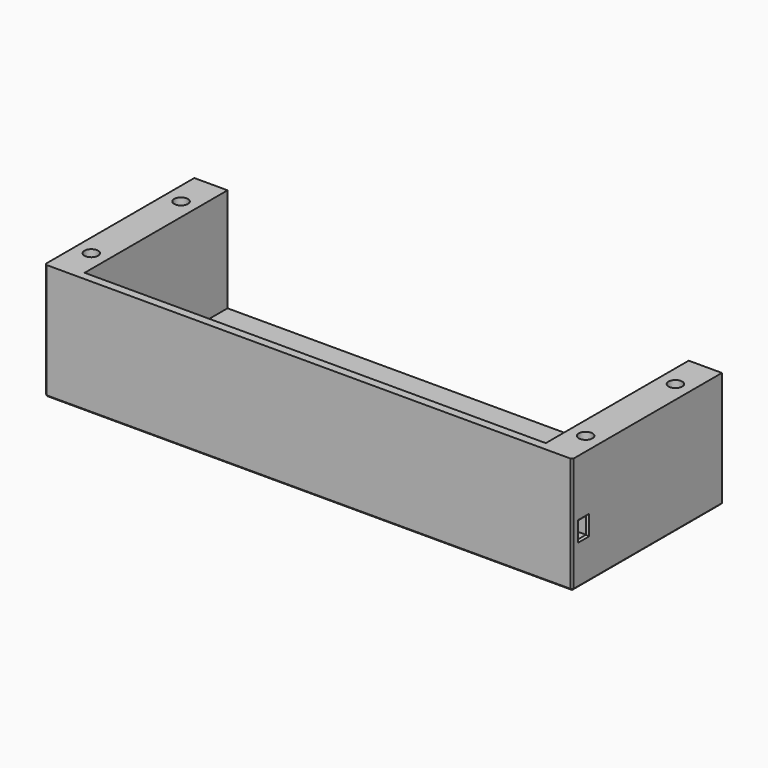
from build123d import *

# Parameters (mm, degrees)
SKETCH010_W     = 127
SKETCH010_H     = 45
PAD005_DEPTH    = 28
SKETCH011_W     = 111
SKETCH011_H     = 43
POCKET006_DEPTH = 25
SKETCH012_R     = 1.65
POCKET007_DEPTH = 28.001
SKETCH018_R     = 2.35
POCKET013_DEPTH = 5
CHAMFER001_SIZE = 0.4
SKETCH023_W     = 2.5
SKETCH023_H     = 4
POCKET017_DEPTH = 127.001
CHAMFER010_SIZE = 0.4


with BuildPart() as part:
    # Sketch010 → Pad005 (new body)
    with BuildSketch(Plane.XY):
        with Locations((0, -18)):
            Rectangle(SKETCH010_W, SKETCH010_H)
    extrude(amount=PAD005_DEPTH)

    # Sketch011 (on Face6 of Pad005) → Pocket006 (cut)
    with BuildSketch(Plane.XY.offset(28)):
        with Locations((0, -17)):
            Rectangle(SKETCH011_W, SKETCH011_H)
    extrude(amount=-POCKET006_DEPTH, mode=Mode.SUBTRACT)

    # Sketch012 (on Face2 of Pocket006) → Pocket007 (cut, through all)
    with BuildSketch(Plane(origin=(0, 0, 0), x_dir=(1, 0, 0), z_dir=(0, 0, -1))):
        with Locations((-59.5, 31.5)):
            Circle(SKETCH012_R)
        with Locations((-59.5, 4.5)):
            Circle(SKETCH012_R)
        with Locations((59.5, 31.5)):
            Circle(SKETCH012_R)
        with Locations((59.5, 4.5)):
            Circle(SKETCH012_R)
    extrude(amount=-POCKET007_DEPTH, mode=Mode.SUBTRACT)

    # Sketch018 (on Face1 of Pocket007) → Pocket013 (cut)
    with BuildSketch(Plane(origin=(0, 4.5, 0), x_dir=(-1, 0, 0), z_dir=(0, 1, 0))):
        with Locations((-59.5, 10)):
            Circle(SKETCH018_R)
        with Locations((59.5, 10)):
            Circle(SKETCH018_R)
    extrude(amount=-POCKET013_DEPTH, mode=Mode.SUBTRACT)

    # Chamfer001
    chamfer001_edges = [part.edges().sort_by_distance(p)[0] for p in [
        (-63.5, -40.5, 14),
        (-63.5, -18, 0),
        (0, -40.5, 0),
        (63.5, -18, 0),
        (63.5, -40.5, 14),
    ]]
    chamfer(chamfer001_edges, length=CHAMFER001_SIZE)

    # Sketch023 (on Face5 of Chamfer001) → Pocket017 (cut, through all)
    with BuildSketch(Plane(origin=(-63.5, 0, 0), x_dir=(0, -1, 0), z_dir=(-1, 0, 0))):
        with Locations((37.15, 12)):
            Rectangle(SKETCH023_W, SKETCH023_H)
    extrude(amount=-POCKET017_DEPTH, mode=Mode.SUBTRACT)


with BuildPart() as part_1:
    # Body002 placement: moved
    add(part.part.moved(Location((0, 0, -28))))

    # Chamfer010
    chamfer010_edges = [part_1.edges().sort_by_distance(p)[0] for p in [
        (57.85, -31.5, -28),
        (-61.15, -31.5, -28),
        (57.85, -4.5, -28),
        (-61.15, -4.5, -28),
        (63.5, -37.15, -14),
        (63.5, -38.4, -16),
        (63.5, -37.15, -18),
        (63.5, -35.9, -16),
    ]]
    chamfer(chamfer010_edges, length=CHAMFER010_SIZE)


with BuildPart() as part_2:
    # Chamfer010 placement: moved
    add(part_1.part.moved(Location((0, 0, -17))))


solid = part_2.part
